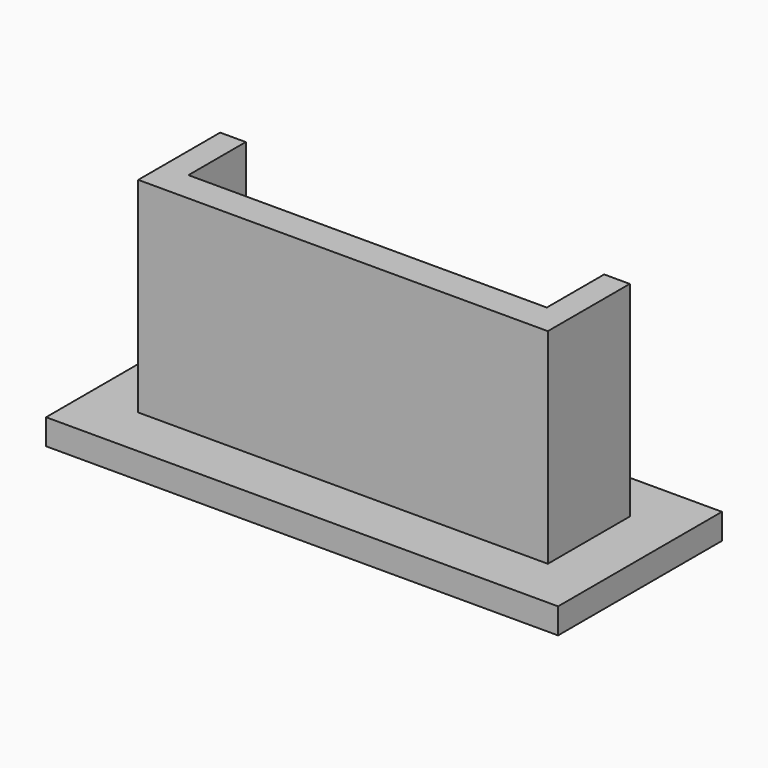
from build123d import *

# Parameters (mm, degrees)
F1_DEPTH  = 5
F3_DEPTH  = 40
F5_DEPTH  = 20
F7_DEPTH  = 16
F8_DEPTH  = 25
F10_DEPTH = 25


with BuildPart() as f1:
    # F0 (on Top) → F1 (new body)
    with BuildSketch(Plane.XY):
        Polygon((1.75, 20), (1.75, 10), (40, 10), (40, -10), (-40, -10), (-40, 10), (-1.75, 10), (-1.75, 20), (-50, 20), (-50, -20), (50, -20), (50, 20), align=None)
        Polygon((1.75, 10), (1.75, 4), (35, 4), (35, -4), (-35, -4), (-35, 4), (-1.75, 4), (-1.75, 10), (-40, 10), (-40, -10), (40, -10), (40, 10), align=None)
        Polygon((1.75, 3), (5.05, 3), (5.05, -3), (-5.05, -3), (-5.05, 3), (-1.75, 3), (-1.75, 4), (-35, 4), (-35, -4), (35, -4), (35, 4), (1.75, 4), align=None)
        with BuildLine():
            Line((5.05, -3), (5.05, 3))
            Line((5.05, 3), (1.75, 3))
            Line((1.75, 3), (1.75, 1.4142135624))
            ThreePointArc((1.75, 1.4142135624), (2.1213203436, 0.75), (2.25, 0))
            ThreePointArc((2.25, 0), (-0.75, -2.1213203436), (-1.75, 1.4142135624))
            Line((-1.75, 1.4142135624), (-1.75, 3))
            Line((-1.75, 3), (-5.05, 3))
            Line((-5.05, 3), (-5.05, -3))
            Line((-5.05, -3), (5.05, -3))
        make_face()
        with BuildLine():
            ThreePointArc((2.25, 0), (2.1213203436, 0.75), (1.75, 1.4142135624))
            ThreePointArc((1.75, 1.4142135624), (0, 2.25), (-1.75, 1.4142135624))
            ThreePointArc((-1.75, 1.4142135624), (-0.75, -2.1213203436), (2.25, 0))
        make_face()
    extrude(amount=F1_DEPTH)

    # F2 (on face) → F3 (join)
    with BuildSketch(Plane.XY.offset(5)):
        with BuildLine():
            Line((-40, 10), (-40, -10))
            Line((-40, -10), (40, -10))
            Line((40, -10), (40, 10))
            Line((40, 10), (1.75, 10))
            Line((1.75, 10), (1.75, 1.4142135624))
            ThreePointArc((1.75, 1.4142135624), (0, 2.25), (-1.75, 1.4142135624))
            Line((-1.75, 1.4142135624), (-1.75, 10))
            Line((-1.75, 10), (-40, 10))
        make_face()
    extrude(amount=F3_DEPTH)

    # F4 (on face) → F5 (cut)
    with BuildSketch(Plane.XY.offset(45)):
        with BuildLine():
            Line((-35, -4), (35, -4))
            Line((35, -4), (35, 4))
            Line((35, 4), (1.75, 4))
            Line((1.75, 4), (1.75, 1.4142135624))
            ThreePointArc((1.75, 1.4142135624), (0, 2.25), (-1.75, 1.4142135624))
            Line((-1.75, 1.4142135624), (-1.75, 4))
            Line((-1.75, 4), (-35, 4))
            Line((-35, 4), (-35, -4))
        make_face()
    extrude(amount=-F5_DEPTH, mode=Mode.SUBTRACT)

    # F6 (on face) → F7 (cut)
    with BuildSketch(Plane.XY.offset(25)):
        with BuildLine():
            Line((5.05, -3), (5.05, 3))
            Line((5.05, 3), (1.75, 3))
            Line((1.75, 3), (1.75, 1.4142135624))
            ThreePointArc((1.75, 1.4142135624), (2.1213203436, 0.75), (2.25, 0))
            ThreePointArc((2.25, 0), (-0.75, -2.1213203436), (-1.75, 1.4142135624))
            Line((-1.75, 1.4142135624), (-1.75, 3))
            Line((-1.75, 3), (-5.05, 3))
            Line((-5.05, 3), (-5.05, -3))
            Line((-5.05, -3), (5.05, -3))
        make_face()
    extrude(amount=-F7_DEPTH, mode=Mode.SUBTRACT)

    # F8 (cut): a face of the model
    f8_faces = [f1.faces().sort_by_distance(p)[0] for p in [
        (0, 0, 25),
    ]]
    extrude(f8_faces, amount=-F8_DEPTH, mode=Mode.SUBTRACT)

    # F9 (on face) → F10 (cut)
    with BuildSketch(Plane.XY.offset(25)):
        Polygon((-35, 20), (-35, 4), (-1.75, 4), (1.75, 4), (35, 4), (35, 20), (1.75, 20), (-1.75, 20), align=None)
    extrude(amount=F10_DEPTH, mode=Mode.SUBTRACT)


solid = f1.part
